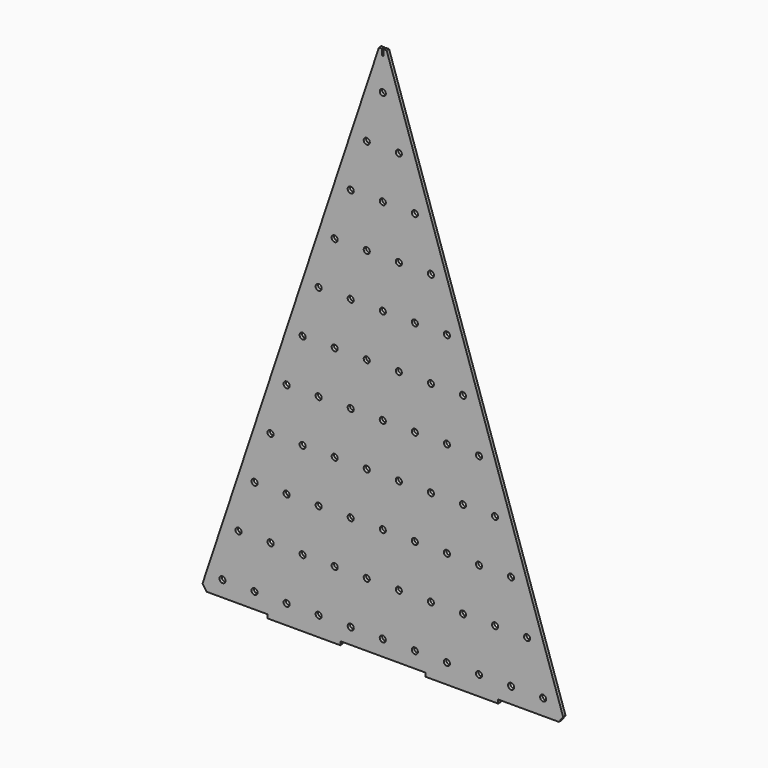
from build123d import *

# Parameters (mm, degrees)
F1_DEPTH = 2.5
F10_SIZE = 5
F2_W     = 60
F2_H     = 3
F3_DEPTH = 2.5
F4_SIZE  = 10
F5_W     = 1
F5_H     = 2.5
F6_DEPTH = 5
F8_D     = 5


with BuildPart() as f1:
    # F0 (on Front) → F1 (new body)
    with BuildSketch(Plane.XZ):
        Polygon((150, 0), (0, 450), (-150, 0), align=None)
    extrude(amount=F1_DEPTH)

    # F10
    f10_edges = [f1.edges().sort_by_distance(p)[0] for p in [
        (150, -1.25, 0),
        (-150, -1.25, 0),
    ]]
    chamfer(f10_edges, length=F10_SIZE)

    # F2 (on Front) → F3 (join)
    with BuildSketch(Plane.XZ):
        with Locations((-65, -1.5)):
            Rectangle(F2_W, F2_H)
        with Locations((65, -1.5)):
            Rectangle(F2_W, F2_H)
    extrude(amount=F3_DEPTH)

    # F4
    f4_edges = [f1.edges().sort_by_distance(p)[0] for p in [
        (0, -1.25, 450),
    ]]
    chamfer(f4_edges, length=F4_SIZE)

    # F5 (on face) → F6 (cut)
    with BuildSketch(Plane.XY.offset(440.5131670195)):
        with Locations((0, -1.25)):
            Rectangle(F5_W, F5_H)
    extrude(amount=-F6_DEPTH, mode=Mode.SUBTRACT)

    # F8 (through all)
    with Locations(Plane(origin=(0, 0, 0), x_dir=(1, 0, 0), z_dir=(0, 1, 0))):
        with Locations((-131.9634634726, -13), (-105.5707707781, -13), (-79.1780780836, -13), (-52.785385389, -13), (-26.3926926945, -13), (0, -13), (26.3926926945, -13), (52.785385389, -13), (79.1780780836, -13), (105.5707707781, -13), (131.9634634726, -13), (118.7671171253, -52.5890390418), (92.3744244308, -52.5890390418), (-52.785385389, -92.1780780836), (-39.5890390418, -210.9451952089), (39.5890390418, -52.5890390418), (-26.3926926945, -92.1780780836), (-118.7671171253, -52.5890390418), (-13.1963463473, -210.9451952089), (39.5890390418, -131.7671171253), (-65.9817317363, -131.7671171253), (0, -92.1780780836), (13.1963463473, -210.9451952089), (-79.1780780836, -171.3561561671), (-39.5890390418, -131.7671171253), (13.1963463473, -52.5890390418), (-26.3926926945, -250.5342342507), (-39.5890390418, -290.1232732925), (39.5890390418, -210.9451952089), (-52.785385389, -171.3561561671), (-13.1963463473, -131.7671171253), (-105.5707707781, -92.1780780836), (-65.9817317363, -52.5890390418), (0, -250.5342342507), (-92.3744244308, -52.5890390418), (-65.9817317363, -210.9451952089), (-26.3926926945, -171.3561561671), (13.1963463473, -131.7671171253), (26.3926926945, -92.1780780836), (-39.5890390418, -52.5890390418), (-13.1963463473, -290.1232732925), (26.3926926945, -250.5342342507), (0, -171.3561561671), (-92.3744244308, -131.7671171253), (-13.1963463473, -52.5890390418), (13.1963463473, -290.1232732925), (-79.1780780836, -92.1780780836), (26.3926926945, -171.3561561671), (39.5890390418, -290.1232732925), (-52.785385389, -250.5342342507), (65.9817317363, -210.9451952089), (52.785385389, -250.5342342507), (52.785385389, -171.3561561671), (79.1780780836, -171.3561561671), (65.9817317363, -131.7671171253), (52.785385389, -92.1780780836), (79.1780780836, -92.1780780836), (92.3744244308, -131.7671171253), (105.5707707781, -92.1780780836), (65.9817317363, -52.5890390418), (26.3926926945, -329.7123123342), (13.1963463473, -369.301351376), (0, -408.8903904178), (-13.1963463473, -369.301351376), (-26.3926926945, -329.7123123342), (0, -329.7123123342), (26.3926926945, -329.7123123342), (79.1780780836, -171.3561561671), (65.9817317363, -131.7671171253), (52.785385389, -92.1780780836), (79.1780780836, -92.1780780836), (92.3744244308, -131.7671171253), (105.5707707781, -92.1780780836), (92.3744244308, -131.7671171253), (105.5707707781, -92.1780780836)):
            Hole(F8_D / 2)


solid = f1.part
